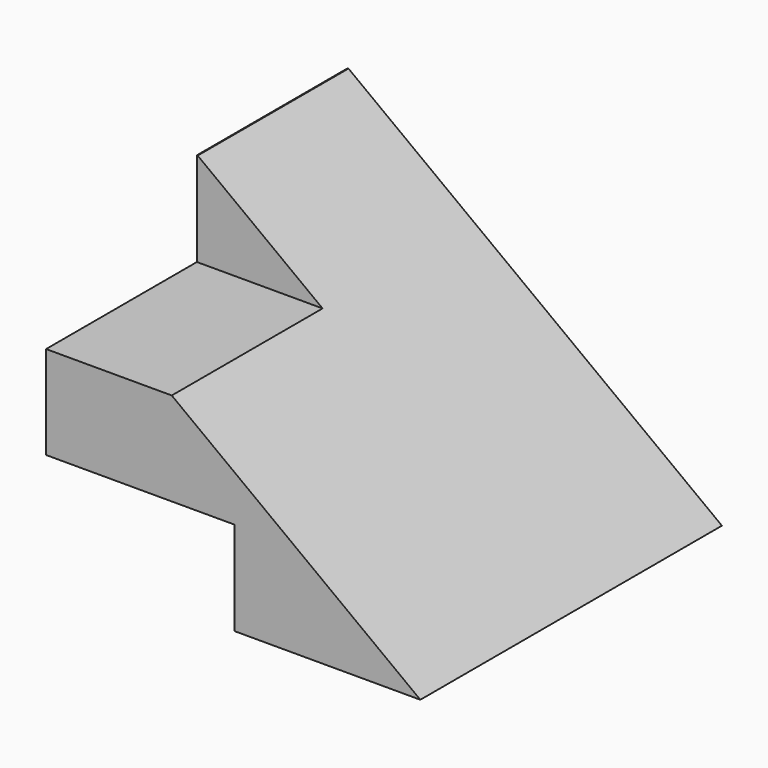
from build123d import *

# Parameters (mm, degrees)
F0_W     = 25.4
F0_H     = 6.35
F1_DEPTH = 38.1
F3_DEPTH = 25.4
F4_W     = 12.91742
F4_H     = 6.35
F5_DEPTH = 12.7
F7_DEPTH = 25.4


with BuildPart() as f1:
    # F0 (on Front) → F1 (new body)
    with BuildSketch(Plane.XZ):
        with Locations((12.7, 3.175)):
            Rectangle(F0_W, F0_H)
    extrude(amount=F1_DEPTH)

    # F2 (on Right) → F3 (join)
    with BuildSketch(Plane.YZ):
        Polygon((0, 6.330987), (0, 25.380987), (-12.7, 25.380987), (-12.7, 19.05), (-25.4, 19.05), (-25.4, 6.330987), (-12.7, 6.330987), align=None)
    extrude(amount=F3_DEPTH)

    # F4 (on Right) → F5 (cut)
    with BuildSketch(Plane.YZ):
        with Locations((-18.979252, 9.588845)):
            Rectangle(F4_W, F4_H)
    extrude(amount=F5_DEPTH, mode=Mode.SUBTRACT)

    # F6 (on Front) → F7 (intersect)
    with BuildSketch(Plane.XZ):
        Polygon((25.21595, 6.447089), (0, 25.42259), (0, 6.447089), align=None)
    extrude(amount=F7_DEPTH, mode=Mode.INTERSECT)


solid = f1.part
